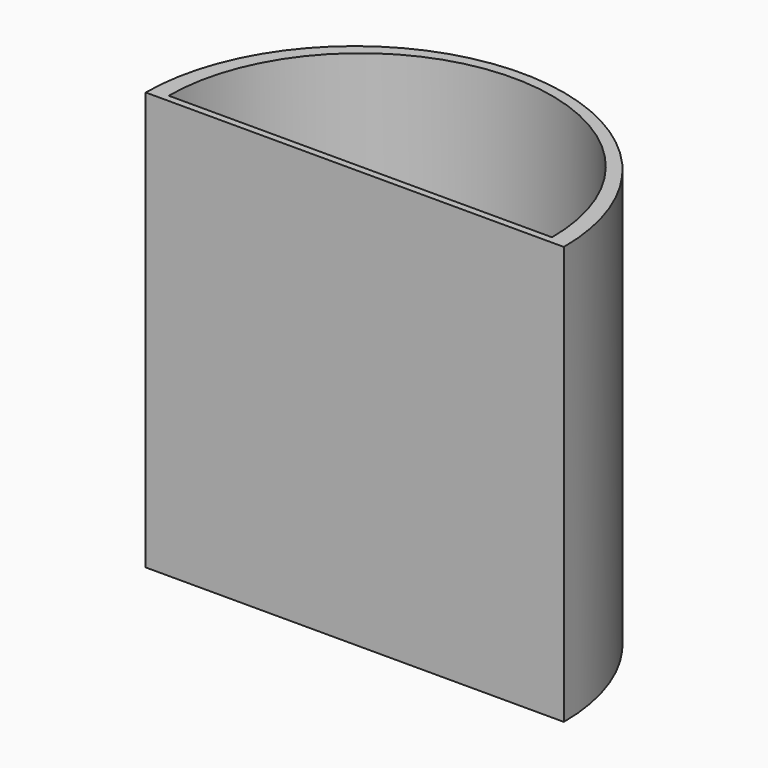
from build123d import *

# Parameters (mm, degrees)
F1_DEPTH = 152.4
F3_DEPTH = 147.32


with BuildPart() as f1:
    # F0 (on Top) → F1 (new body)
    with BuildSketch(Plane.XY):
        with BuildLine():
            Line((-76.2, 0), (76.2, 0))
            ThreePointArc((76.2, 0), (0, 76.2), (-76.2, 0))
        make_face()
    extrude(amount=F1_DEPTH)

    # F2 (on face) → F3 (cut)
    with BuildSketch(Plane.XY.offset(152.4)):
        with BuildLine():
            Line((0, 2.54), (69.85, 2.54))
            ThreePointArc((69.85, 2.54), (0, 72.39), (-69.85, 2.54))
            Line((-69.85, 2.54), (0, 2.54))
        make_face()
    extrude(amount=-F3_DEPTH, mode=Mode.SUBTRACT)


solid = f1.part
